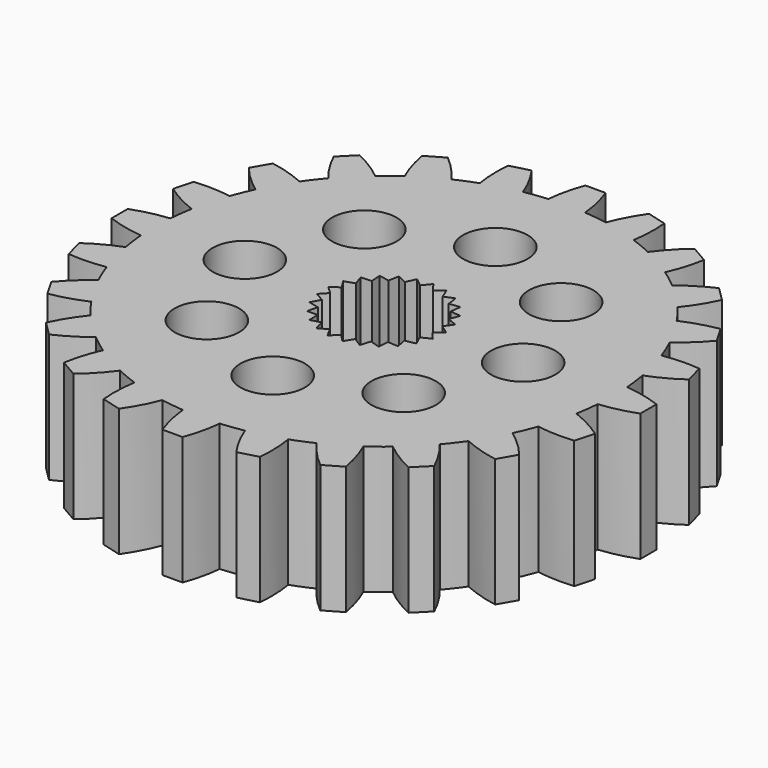
from build123d import *

# Parameters (mm, degrees)
F0_R     = 1.6
F1_DEPTH = 6.35


with BuildPart() as f1:
    # F0 (on Top) → F1 (new body)
    with BuildSketch(Plane.XY):
        with BuildLine():
            Line((0.5, 13.107544), (-0.5, 13.107544))
            ThreePointArc((-0.5, 13.107544), (-0.764193, 12.229191), (-0.914082, 11.324295))
            ThreePointArc((-0.914082, 11.324295), (-1.482925, 11.263931), (-2.048008, 11.175011))
            ThreePointArc((-2.048008, 11.175011), (-2.426993, 12.010279), (-2.909519, 12.790325))
            Line((-2.909519, 12.790325), (-3.875445, 12.531506))
            ThreePointArc((-3.875445, 12.531506), (-3.903302, 11.614704), (-3.813879, 10.701847))
            ThreePointArc((-3.813879, 10.701847), (-4.347715, 10.496313), (-4.870529, 10.264168))
            ThreePointArc((-4.870529, 10.264168), (-5.452785, 10.972887), (-6.12076, 11.601467))
            Line((-6.12076, 11.601467), (-6.986785, 11.101467))
            ThreePointArc((-6.986785, 11.101467), (-6.776406, 10.208693), (-6.453766, 9.350086))
            ThreePointArc((-6.453766, 9.350086), (-6.916216, 9.013388), (-7.361132, 8.65384))
            ThreePointArc((-7.361132, 8.65384), (-8.106978, 9.18771), (-8.91488, 9.621987))
            Line((-8.91488, 9.621987), (-9.621987, 8.91488))
            ThreePointArc((-9.621987, 8.91488), (-9.18771, 8.106978), (-8.65384, 7.361132))
            ThreePointArc((-8.65384, 7.361132), (-9.013388, 6.916216), (-9.350086, 6.453766))
            ThreePointArc((-9.350086, 6.453766), (-10.208693, 6.776406), (-11.101467, 6.986785))
            Line((-11.101467, 6.986785), (-11.601467, 6.12076))
            ThreePointArc((-11.601467, 6.12076), (-10.972887, 5.452785), (-10.264168, 4.870529))
            ThreePointArc((-10.264168, 4.870529), (-10.496313, 4.347715), (-10.701847, 3.813879))
            ThreePointArc((-10.701847, 3.813879), (-11.614704, 3.903302), (-12.531506, 3.875445))
            Line((-12.531506, 3.875445), (-12.790325, 2.909519))
            ThreePointArc((-12.790325, 2.909519), (-12.010279, 2.426993), (-11.175011, 2.048008))
            ThreePointArc((-11.175011, 2.048008), (-11.263931, 1.482925), (-11.324295, 0.914082))
            ThreePointArc((-11.324295, 0.914082), (-12.229191, 0.764193), (-13.107544, 0.5))
            Line((-13.107544, 0.5), (-13.107544, -0.5))
            ThreePointArc((-13.107544, -0.5), (-12.229191, -0.764193), (-11.324295, -0.914082))
            ThreePointArc((-11.324295, -0.914082), (-11.263931, -1.482925), (-11.175011, -2.048008))
            ThreePointArc((-11.175011, -2.048008), (-12.010279, -2.426993), (-12.790325, -2.909519))
            Line((-12.790325, -2.909519), (-12.531506, -3.875445))
            ThreePointArc((-12.531506, -3.875445), (-11.614704, -3.903302), (-10.701847, -3.813879))
            ThreePointArc((-10.701847, -3.813879), (-10.496313, -4.347715), (-10.264168, -4.870529))
            ThreePointArc((-10.264168, -4.870529), (-10.972887, -5.452785), (-11.601467, -6.12076))
            Line((-11.601467, -6.12076), (-11.101467, -6.986785))
            ThreePointArc((-11.101467, -6.986785), (-10.208693, -6.776406), (-9.350086, -6.453766))
            ThreePointArc((-9.350086, -6.453766), (-9.013388, -6.916216), (-8.65384, -7.361132))
            ThreePointArc((-8.65384, -7.361132), (-9.18771, -8.106978), (-9.621987, -8.91488))
            Line((-9.621987, -8.91488), (-8.91488, -9.621987))
            ThreePointArc((-8.91488, -9.621987), (-8.106978, -9.18771), (-7.361132, -8.65384))
            ThreePointArc((-7.361132, -8.65384), (-6.916216, -9.013388), (-6.453766, -9.350086))
            ThreePointArc((-6.453766, -9.350086), (-6.776406, -10.208693), (-6.986785, -11.101467))
            Line((-6.986785, -11.101467), (-6.12076, -11.601467))
            ThreePointArc((-6.12076, -11.601467), (-5.452785, -10.972887), (-4.870529, -10.264168))
            ThreePointArc((-4.870529, -10.264168), (-4.347715, -10.496313), (-3.813879, -10.701847))
            ThreePointArc((-3.813879, -10.701847), (-3.903302, -11.614704), (-3.875445, -12.531506))
            Line((-3.875445, -12.531506), (-2.909519, -12.790325))
            ThreePointArc((-2.909519, -12.790325), (-2.426993, -12.010279), (-2.048008, -11.175011))
            ThreePointArc((-2.048008, -11.175011), (-1.482925, -11.263931), (-0.914082, -11.324295))
            ThreePointArc((-0.914082, -11.324295), (-0.764193, -12.229191), (-0.5, -13.107544))
            Line((-0.5, -13.107544), (0.5, -13.107544))
            ThreePointArc((0.5, -13.107544), (0.764193, -12.229191), (0.914082, -11.324295))
            ThreePointArc((0.914082, -11.324295), (1.482925, -11.263931), (2.048008, -11.175011))
            ThreePointArc((2.048008, -11.175011), (2.426993, -12.010279), (2.909519, -12.790325))
            Line((2.909519, -12.790325), (3.875445, -12.531506))
            ThreePointArc((3.875445, -12.531506), (3.903302, -11.614704), (3.813879, -10.701847))
            ThreePointArc((3.813879, -10.701847), (4.347715, -10.496313), (4.870529, -10.264168))
            ThreePointArc((4.870529, -10.264168), (5.452785, -10.972887), (6.12076, -11.601467))
            Line((6.12076, -11.601467), (6.986785, -11.101467))
            ThreePointArc((6.986785, -11.101467), (6.776406, -10.208693), (6.453766, -9.350086))
            ThreePointArc((6.453766, -9.350086), (6.916216, -9.013388), (7.361132, -8.65384))
            ThreePointArc((7.361132, -8.65384), (8.106978, -9.18771), (8.91488, -9.621987))
            Line((8.91488, -9.621987), (9.621987, -8.91488))
            ThreePointArc((9.621987, -8.91488), (9.18771, -8.106978), (8.65384, -7.361132))
            ThreePointArc((8.65384, -7.361132), (9.013388, -6.916216), (9.350086, -6.453766))
            ThreePointArc((9.350086, -6.453766), (10.208693, -6.776406), (11.101467, -6.986785))
            Line((11.101467, -6.986785), (11.601467, -6.12076))
            ThreePointArc((11.601467, -6.12076), (10.972887, -5.452785), (10.264168, -4.870529))
            ThreePointArc((10.264168, -4.870529), (10.496313, -4.347715), (10.701847, -3.813879))
            ThreePointArc((10.701847, -3.813879), (11.614704, -3.903302), (12.531506, -3.875445))
            Line((12.531506, -3.875445), (12.790325, -2.909519))
            ThreePointArc((12.790325, -2.909519), (12.010279, -2.426993), (11.175011, -2.048008))
            ThreePointArc((11.175011, -2.048008), (11.263931, -1.482925), (11.324295, -0.914082))
            ThreePointArc((11.324295, -0.914082), (12.229191, -0.764193), (13.107544, -0.5))
            Line((13.107544, -0.5), (13.107544, 0.5))
            ThreePointArc((13.107544, 0.5), (12.229191, 0.764193), (11.324295, 0.914082))
            ThreePointArc((11.324295, 0.914082), (11.263931, 1.482925), (11.175011, 2.048008))
            ThreePointArc((11.175011, 2.048008), (12.010279, 2.426993), (12.790325, 2.909519))
            Line((12.790325, 2.909519), (12.531506, 3.875445))
            ThreePointArc((12.531506, 3.875445), (11.614704, 3.903302), (10.701847, 3.813879))
            ThreePointArc((10.701847, 3.813879), (10.496313, 4.347715), (10.264168, 4.870529))
            ThreePointArc((10.264168, 4.870529), (10.972887, 5.452785), (11.601467, 6.12076))
            Line((11.601467, 6.12076), (11.101467, 6.986785))
            ThreePointArc((11.101467, 6.986785), (10.208693, 6.776406), (9.350086, 6.453766))
            ThreePointArc((9.350086, 6.453766), (9.013388, 6.916216), (8.65384, 7.361132))
            ThreePointArc((8.65384, 7.361132), (9.18771, 8.106978), (9.621987, 8.91488))
            Line((9.621987, 8.91488), (8.91488, 9.621987))
            ThreePointArc((8.91488, 9.621987), (8.106978, 9.18771), (7.361132, 8.65384))
            ThreePointArc((7.361132, 8.65384), (6.916216, 9.013388), (6.453766, 9.350086))
            ThreePointArc((6.453766, 9.350086), (6.776406, 10.208693), (6.986785, 11.101467))
            Line((6.986785, 11.101467), (6.12076, 11.601467))
            ThreePointArc((6.12076, 11.601467), (5.452785, 10.972887), (4.870529, 10.264168))
            ThreePointArc((4.870529, 10.264168), (4.347715, 10.496313), (3.813879, 10.701847))
            ThreePointArc((3.813879, 10.701847), (3.903302, 11.614704), (3.875445, 12.531506))
            Line((3.875445, 12.531506), (2.909519, 12.790325))
            ThreePointArc((2.909519, 12.790325), (2.426993, 12.010279), (2.048008, 11.175011))
            ThreePointArc((2.048008, 11.175011), (1.482925, 11.263931), (0.914082, 11.324295))
            ThreePointArc((0.914082, 11.324295), (0.764193, 12.229191), (0.5, 13.107544))
        make_face()
        with Locations((-4.879037, -4.879037)):
            Circle(F0_R, mode=Mode.SUBTRACT)
        with Locations((0, -6.9)):
            Circle(F0_R, mode=Mode.SUBTRACT)
        with Locations((4.879037, -4.879037)):
            Circle(F0_R, mode=Mode.SUBTRACT)
        with Locations((-6.9, 0)):
            Circle(F0_R, mode=Mode.SUBTRACT)
        with Locations((-4.879037, 4.879037)):
            Circle(F0_R, mode=Mode.SUBTRACT)
        Polygon((-2.313127, 1.150841), (-2.481189, 1.651718), (-1.954254, 1.689937), (-1.992473, 2.216873), (-1.472587, 2.122848), (-1.378562, 2.642733), (-0.898392, 2.422372), (-0.678031, 2.902541), (-0.267748, 2.56969), (0.065104, 2.979972), (0.37972, 2.555544), (0.804147, 2.87016), (1.003328, 2.380825), (1.492663, 2.580005), (1.563894, 2.056509), (2.08739, 2.12774), (2.026194, 1.602976), (2.550958, 1.54178), (2.361181, 1.048721), (2.85424, 0.858945), (2.547807, 0.428572), (2.97818, 0.122139), (2.574344, -0.218506), (2.914989, -0.622342), (2.439126, -0.851855), (2.668639, -1.327718), (2.150649, -1.431678), (2.254609, -1.949669), (1.727038, -1.921544), (1.698914, -2.449115), (1.194912, -2.290672), (1.036469, -2.794674), (0.587704, -2.515869), (0.308899, -2.964634), (-0.056431, -2.582985), (-0.43808, -2.948314), (-0.69702, -2.487802), (-1.157533, -2.746742), (-1.293813, -2.236301), (-1.804254, -2.372581), (-1.809311, -1.844285), (-2.337607, -1.849342), (-2.211123, -1.336386), (-2.724079, -1.209903), (-2.474002, -0.744517), (-2.939388, -0.494441), (-2.581431, -0.105868), (-2.970004, 0.252089), (-2.526659, 0.539434), (-2.814004, 0.982779), align=None, mode=Mode.SUBTRACT)
        with Locations((4.879037, 4.879037)):
            Circle(F0_R, mode=Mode.SUBTRACT)
        with Locations((6.9, 0)):
            Circle(F0_R, mode=Mode.SUBTRACT)
        with Locations((0, 6.9)):
            Circle(F0_R, mode=Mode.SUBTRACT)
    extrude(amount=F1_DEPTH)


solid = f1.part
